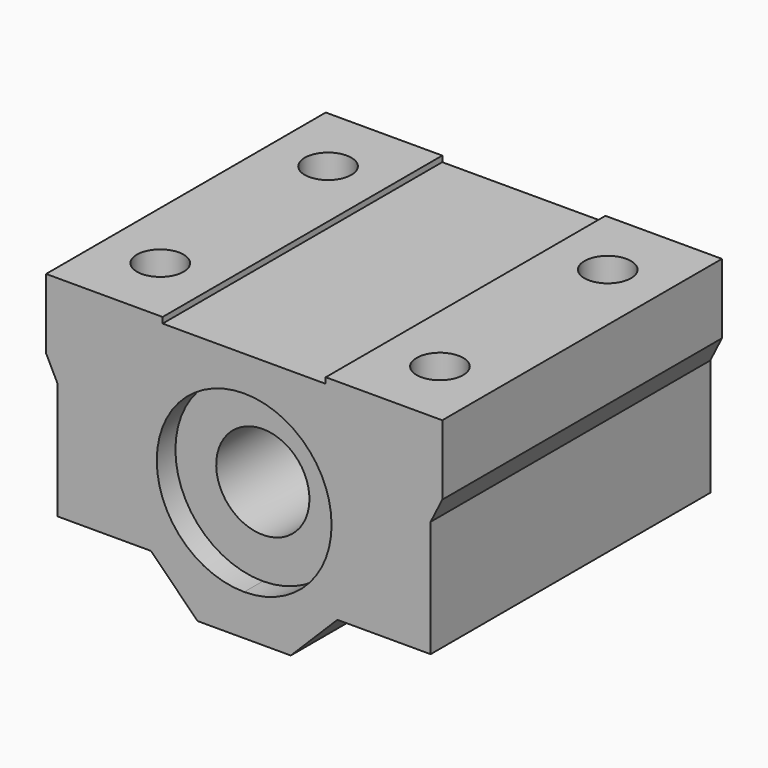
from build123d import *

# Parameters (mm, degrees)
CYLINDER002_R          = 7.5
CYLINDER002_DEPTH      = 4
CYLINDER002_ROLL_ANGLE = 90
BOX003_W               = 7
BOX003_H               = 34
BOX003_DEPTH           = 0.5
PAD001_DEPTH           = 27
BOX002_W               = 8
BOX002_H               = 22
BOX002_DEPTH           = 4
BOX001_W               = 1
BOX001_H               = 19
BOX001_DEPTH           = 14
PAD_DEPTH              = 31
CYLINDER001_R          = 2
CYLINDER001_DEPTH      = 30
CYLINDER_R             = 4
CYLINDER_DEPTH         = 40
CYLINDER_ROLL_ANGLE    = 90
BOX_W                  = 17
BOX_H                  = 15
BOX_DEPTH              = 22


with BuildPart() as cilindro002:
    # Cylinder002 → Cylinder002 (new body)
    with BuildSketch(Plane.XY):
        Circle(CYLINDER002_R)
    extrude(amount=CYLINDER002_DEPTH)


with BuildPart() as cilindro002_1:
    # Cylinder002 roll: moved
    add(cilindro002.part.rotate(Axis((0, 0, 0), (1, 0, 0)), CYLINDER002_ROLL_ANGLE))


with BuildPart() as cilindro002_2:
    # Cylinder002 placement: moved
    add(cilindro002_1.part.moved(Location((17, 2, 11))))


with BuildPart() as cubo003:
    # Box003 → Box003 (new body)
    with BuildSketch(Plane(origin=(10, 0, 21.5), x_dir=(1, 0, 0), z_dir=(0, 0, 1))):
        with Locations((3.5, 17)):
            Rectangle(BOX003_W, BOX003_H)
    extrude(amount=BOX003_DEPTH)


with BuildPart() as body001:
    # Sketch001 → Pad001 (new body)
    with BuildSketch(Plane.XZ):
        Polygon((0, 0), (4, 0), (0, 4), align=None)
    extrude(amount=PAD001_DEPTH)


with BuildPart() as body001_1:
    # Body001 placement: moved
    add(body001.part.moved(Location((9, 20, 0))))


with BuildPart() as cubo002:
    # Box002 → Box002 (new body)
    with BuildSketch(Plane(origin=(1, 0, 0), x_dir=(1, 0, 0), z_dir=(0, 0, 1))):
        with Locations((4, 11)):
            Rectangle(BOX002_W, BOX002_H)
    extrude(amount=BOX002_DEPTH)


with BuildPart() as cubo001:
    # Box001 → Box001 (new body)
    with BuildSketch(Plane.XY):
        with Locations((0.5, 9.5)):
            Rectangle(BOX001_W, BOX001_H)
    extrude(amount=BOX001_DEPTH)


with BuildPart() as body:
    # Sketch → Pad (new body)
    with BuildSketch(Plane.XZ):
        Polygon((0, 0), (-1, -8e-06), (-1, 1.999992), align=None)
    extrude(amount=PAD_DEPTH)


with BuildPart() as body_1:
    # Body placement: moved
    add(body.part.moved(Location((1, 18, 14))))


with BuildPart() as cilindro001:
    # Cylinder001 → Cylinder001 (new body)
    with BuildSketch(Plane(origin=(5, 6, -3), x_dir=(1, 0, 0), z_dir=(0, 0, 1))):
        Circle(CYLINDER001_R)
    extrude(amount=CYLINDER001_DEPTH)


with BuildPart() as cilindro:
    # Cylinder → Cylinder (new body)
    with BuildSketch(Plane.XY):
        Circle(CYLINDER_R)
    extrude(amount=CYLINDER_DEPTH)


with BuildPart() as cilindro_1:
    # Cylinder roll: moved
    add(cilindro.part.rotate(Axis((0, 0, 0), (1, 0, 0)), CYLINDER_ROLL_ANGLE))


with BuildPart() as cilindro_2:
    # Cylinder placement: moved
    add(cilindro_1.part.moved(Location((17, 35, 11))))


with BuildPart() as cut007:
    # Box → Box (new body)
    with BuildSketch(Plane.XY):
        with Locations((8.5, 7.5)):
            Rectangle(BOX_W, BOX_H)
    extrude(amount=BOX_DEPTH)

    # Cut: cut Cilindro
    add(cilindro_2.part, mode=Mode.SUBTRACT)

    # Cut001: cut Cilindro001
    add(cilindro001.part, mode=Mode.SUBTRACT)

    # Cut002: cut Body
    add(body_1.part, mode=Mode.SUBTRACT)

    # Cut003: cut Cubo001
    add(cubo001.part, mode=Mode.SUBTRACT)

    # Cut004: cut Cubo002
    add(cubo002.part, mode=Mode.SUBTRACT)

    # Cut005: cut Body001
    add(body001_1.part, mode=Mode.SUBTRACT)

    # Cut006: cut Cubo003
    add(cubo003.part, mode=Mode.SUBTRACT)

    # Cut007: cut Cilindro002
    add(cilindro002_2.part, mode=Mode.SUBTRACT)


with BuildPart() as fusion:
    # mirror: instance of Cut007
    add(cut007.part.mirror(Plane(origin=(17, 0, 0.020863), x_dir=(0, -1, 0), z_dir=(1, 0, 0))))

    # Fusion: union Cut007
    add(cut007.part)


with BuildPart() as mirror_of_fusion:
    # mirror001: instance of Fusion
    add(fusion.part.mirror(Plane(origin=(34, 15, 22), x_dir=(1, 0, 0), z_dir=(0, 1, 0))))


with BuildPart() as fusion001:
    # Fusion001 base: copy of Fusion
    add(fusion.part)

    # Fusion001: union Mirror of Fusion
    add(mirror_of_fusion.part)


solid = fusion001.part
